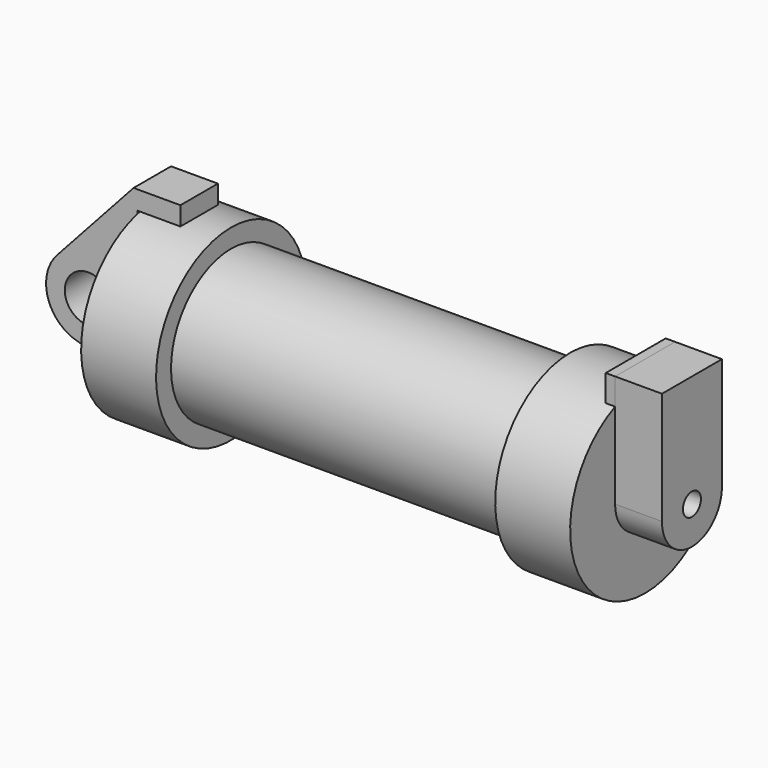
from build123d import *

# Parameters (mm, degrees)
F0_W     = 5.842
F0_H     = 12.7
F0_R     = 3.175
F2_DEPTH = 3.175
F3_R     = 1.524
F4_DEPTH = 1.27
F5_DEPTH = 6.35
F6_DEPTH = 56.261


with BuildPart() as f1:
    # F0 (on Front) → F1 (revolve)
    with BuildSketch(Plane.XZ):
        Polygon((5.842, 12.7), (5.842, 0), (66.294, 0), (66.294, 12.7), (56.134, 12.7), (56.134, 10.16), (10.16, 10.16), (10.16, 12.7), align=None)
        with Locations((2.921, 6.35)):
            Rectangle(F0_W, F0_H)
    revolve(axis=Axis((33.147, 0, 0), (-1, 0, 0)))

    # F3 (on face) → F4 (join)
    with BuildSketch(Plane.YZ.offset(66.294)):
        with BuildLine():
            Line((-5.08, 11.639742), (-5.08, 0))
            ThreePointArc((-5.08, 0), (0, -5.08), (5.08, 0))
            Line((5.08, 0), (5.08, 11.639742))
            ThreePointArc((5.08, 11.639742), (0, 12.7), (-5.08, 11.639742))
        make_face()
        Circle(F3_R, mode=Mode.SUBTRACT)
        Circle(F3_R)
        with BuildLine():
            Line((-5.08, 15.24), (-5.08, 11.639742))
            ThreePointArc((-5.08, 11.639742), (0, 12.7), (5.08, 11.639742))
            Line((5.08, 11.639742), (5.08, 15.24))
            Line((5.08, 15.24), (-5.08, 15.24))
        make_face()
    extrude(amount=-F4_DEPTH)

    # F3 (on face) → F6 (cut)
    with BuildSketch(Plane.YZ.offset(66.294)):
        Circle(F3_R)
    extrude(amount=-F6_DEPTH, mode=Mode.SUBTRACT)


with BuildPart() as f2:
    # F0 (on Front) → F2 (new body, symmetric)
    with BuildSketch(Plane.XZ):
        with BuildLine():
            Line((-0.9398, 0), (0, 0))
            Line((0, 0), (0, 12.7))
            Line((0, 12.7), (5.842, 12.7))
            Line((5.842, 12.7), (5.842, 15.24))
            Line((5.842, 15.24), (-0.508, 15.24))
            Line((-0.508, 15.24), (-10.88063, 3.847543))
            ThreePointArc((-10.88063, 3.847543), (-4.591961, 5.329721), (-0.9398, 0))
        make_face()
        with BuildLine():
            Line((5.842, 0), (0, 0))
            Line((0, 0), (-0.9398, 0))
            ThreePointArc((-0.9398, 0), (-3.195791, -4.549339), (-8.182663, -5.506983))
            Line((-8.182663, -5.506983), (5.842, -9.398))
            Line((5.842, -9.398), (5.842, 0))
        make_face()
        with BuildLine():
            ThreePointArc((-8.182663, -5.506983), (-3.195791, -4.549339), (-0.9398, 0))
            ThreePointArc((-0.9398, 0), (-4.591961, 5.329721), (-10.88063, 3.847543))
            ThreePointArc((-10.88063, 3.847543), (-12.145978, -1.583727), (-8.182663, -5.506983))
        make_face()
        with Locations((-6.6548, 0)):
            Circle(F0_R, mode=Mode.SUBTRACT)
    extrude(amount=F2_DEPTH, both=True)


with BuildPart() as f5:
    # F3 (on face) → F5 (new body)
    with BuildSketch(Plane.YZ.offset(66.294)):
        with BuildLine():
            Line((-5.08, 15.24), (-5.08, 11.639742))
            ThreePointArc((-5.08, 11.639742), (0, 12.7), (5.08, 11.639742))
            Line((5.08, 11.639742), (5.08, 15.24))
            Line((5.08, 15.24), (-5.08, 15.24))
        make_face()
        with BuildLine():
            Line((-5.08, 11.639742), (-5.08, 0))
            ThreePointArc((-5.08, 0), (0, -5.08), (5.08, 0))
            Line((5.08, 0), (5.08, 11.639742))
            ThreePointArc((5.08, 11.639742), (0, 12.7), (-5.08, 11.639742))
        make_face()
        Circle(F3_R, mode=Mode.SUBTRACT)
    extrude(amount=F5_DEPTH)


solid = Compound([f1.part, f2.part, f5.part])
